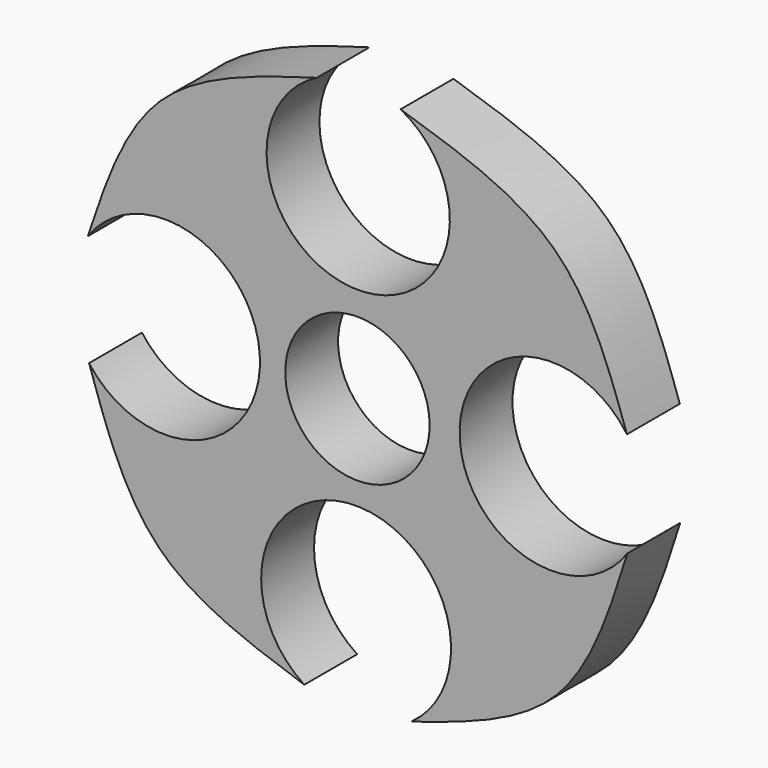
from build123d import *

# Parameters (mm, degrees)
F0_R     = 10.925
F1_DEPTH = 10


with BuildPart() as f1:
    # F0 (on Front) → F1 (new body)
    with BuildSketch(Plane.XZ):
        with BuildLine():
            ThreePointArc((6.5249574231, 40.6646558384), (0.0459096382, 14.5083418232), (-6.1770754419, 40.726756721))
            add(Edge.make_bspline(
                [(-40.8038027643, 8.3678380007), (-38.0834984497, 16.5198976986), (-32.5580533058, 33.0782497831), (-15.0602859872, 38.151290785), (-6.1770754419, 40.726756721)],
                knots=[0, 0, 0, 0, 0.4923231254, 1, 1, 1, 1], degree=3))
            ThreePointArc((-40.8038027643, 8.3678380007), (-14.7476535733, 0.2488868526), (-40.6083570221, -8.4725978572))
            add(Edge.make_bspline(
                [(-8.0420210312, -40.7221338411), (-16.2483103126, -37.9560136077), (-32.5565222224, -32.4589514256), (-37.9358878916, -16.4338656213), (-40.6083570221, -8.4725978572)],
                knots=[0, 0, 0, 0, 0.5031998119, 1, 1, 1, 1], degree=3))
            ThreePointArc((-8.0420210312, -40.7221338411), (-0.5177001747, -14.3246430561), (8.1513150353, -40.3686653911))
            add(Edge.make_bspline(
                [(40.8402930095, -7.3274582859), (38.1736724372, -15.8123782909), (32.8786702926, -32.6605411422), (16.3539860852, -37.8116905047), (8.1513150353, -40.3686653911)],
                knots=[0, 0, 0, 0, 0.5036110123, 1, 1, 1, 1], degree=3))
            ThreePointArc((40.8402930095, -7.3274582859), (15.4556142243, 0.4876357246), (40.7752969603, 8.5108070158))
            add(Edge.make_bspline(
                [(6.5249574231, 40.6646558384), (15.3331296079, 37.870132091), (32.5615945724, 32.4041451897), (38.0788006621, 16.3548087744), (40.7752969603, 8.5108070158)],
                knots=[0, 0, 0, 0, 0.511256892, 1, 1, 1, 1], degree=3))
        make_face()
        Circle(F0_R, mode=Mode.SUBTRACT)
        with BuildLine():
            ThreePointArc((6.5249574231, 40.6646558384), (0.0459096382, 14.5083418232), (-6.1770754419, 40.726756721))
            add(Edge.make_bspline(
                [(-40.8038027643, 8.3678380007), (-38.0834984497, 16.5198976986), (-32.5580533058, 33.0782497831), (-15.0602859872, 38.151290785), (-6.1770754419, 40.726756721)],
                knots=[0, 0, 0, 0, 0.4923231254, 1, 1, 1, 1], degree=3))
            ThreePointArc((-40.8038027643, 8.3678380007), (-14.7476535733, 0.2488868526), (-40.6083570221, -8.4725978572))
            add(Edge.make_bspline(
                [(-8.0420210312, -40.7221338411), (-16.2483103126, -37.9560136077), (-32.5565222224, -32.4589514256), (-37.9358878916, -16.4338656213), (-40.6083570221, -8.4725978572)],
                knots=[0, 0, 0, 0, 0.5031998119, 1, 1, 1, 1], degree=3))
            ThreePointArc((-8.0420210312, -40.7221338411), (-0.5177001747, -14.3246430561), (8.1513150353, -40.3686653911))
            add(Edge.make_bspline(
                [(40.8402930095, -7.3274582859), (38.1736724372, -15.8123782909), (32.8786702926, -32.6605411422), (16.3539860852, -37.8116905047), (8.1513150353, -40.3686653911)],
                knots=[0, 0, 0, 0, 0.5036110123, 1, 1, 1, 1], degree=3))
            ThreePointArc((40.8402930095, -7.3274582859), (15.4556142243, 0.4876357246), (40.7752969603, 8.5108070158))
            add(Edge.make_bspline(
                [(6.5249574231, 40.6646558384), (15.3331296079, 37.870132091), (32.5615945724, 32.4041451897), (38.0788006621, 16.3548087744), (40.7752969603, 8.5108070158)],
                knots=[0, 0, 0, 0, 0.511256892, 1, 1, 1, 1], degree=3))
        make_face()
        Circle(F0_R, mode=Mode.SUBTRACT)
    extrude(amount=F1_DEPTH)


solid = f1.part
